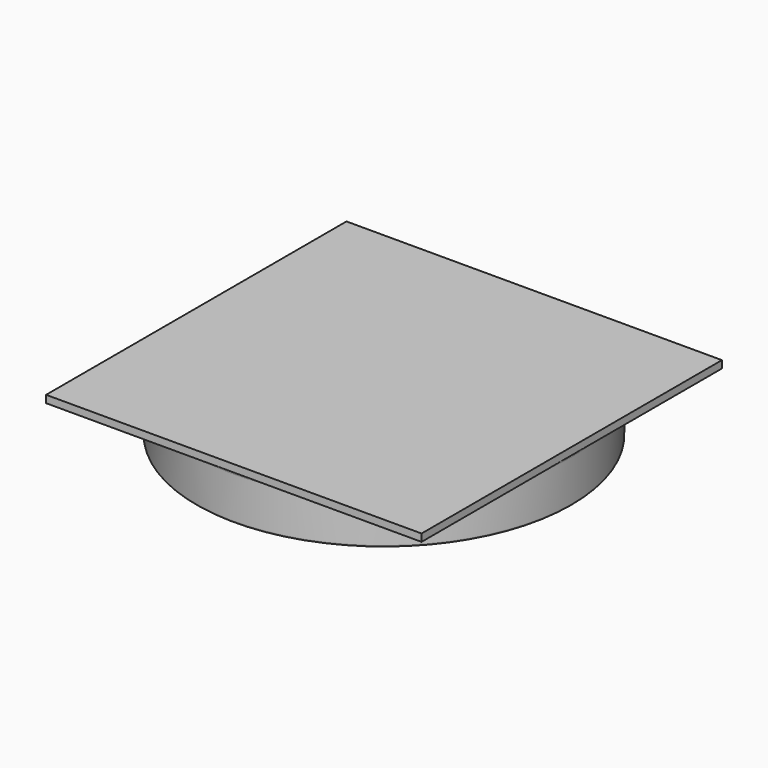
from build123d import *

# Parameters (mm, degrees)
F0_R     = 63.5
F0_R_2   = 58.5
F1_DEPTH = 15
F2_R     = 0.5
F2_2_R   = 0.5
F2_3_R   = 0.5
F2_4_R   = 0.5
F2_5_R   = 0.5
F2_6_R   = 0.5
F2_7_R   = 0.5
F3_R     = 0.5
F3_2_R   = 0.5
F3_3_R   = 0.5
F3_4_R   = 0.5
F3_5_R   = 0.5
F3_6_R   = 0.5
F3_7_R   = 0.5
F3_8_R   = 0.5
F4_W     = 127
F4_H     = 127
F5_DEPTH = 2.5


with BuildPart() as f1:
    # F0 (on Top) → F1 (new body)
    with BuildSketch(Plane.XY):
        Circle(F0_R)
        Circle(F0_R_2, mode=Mode.SUBTRACT)
    extrude(amount=-F1_DEPTH)

    # F3
    f3_edges = [f1.edges().sort_by_distance(p)[0] for p in [
        (-63.5, 0, 0),
        (-58.5, 0, 0),
        (-63.5, 0, -15),
        (-58.5, 0, -15),
    ]]
    fillet(f3_edges, radius=F3_R)


with BuildPart() as f1b:
    # F0 (on Top) → F1, piece 2 (new body)
    with BuildSketch(Plane.XY):
        with BuildLine():
            ThreePointArc((-48.4767985742, -1.5), (-34.2946788875, -34.2946788875), (-1.5, -48.4767985742))
            Line((-1.5, -48.4767985742), (-1.5, -43.4741302386))
            ThreePointArc((-1.5, -43.4741302386), (-30.7591449816, -30.7591449816), (-43.4741302386, -1.5))
            Line((-43.4741302386, -1.5), (-48.4767985742, -1.5))
        make_face()
    extrude(amount=-F1_DEPTH)

    # F2#2
    f2_2_edges = [f1b.edges().sort_by_distance(p)[0] for p in [
        (-48.476799, -1.5, -7.5),
        (-43.47413, -1.5, -7.5),
        (-1.5, -48.476799, -7.5),
        (-1.5, -43.47413, -7.5),
    ]]
    fillet(f2_2_edges, radius=F2_2_R)

    # F3#2
    f3_2_edges = [f1b.edges().sort_by_distance(p)[0] for p in [
        (-34.294679, -34.294679, 0),
        (-30.759145, -30.759145, 0),
        (-30.759145, -30.759145, -15),
        (-34.294679, -34.294679, -15),
    ]]
    fillet(f3_2_edges, radius=F3_2_R)


with BuildPart() as f1c:
    # F0 (on Top) → F1, piece 3 (new body)
    with BuildSketch(Plane.XY):
        with BuildLine():
            Line((-1.5, 43.4741302386), (-1.5, 48.4767985742))
            ThreePointArc((-1.5, 48.4767985742), (-34.2946788875, 34.2946788875), (-48.4767985742, 1.5))
            Line((-48.4767985742, 1.5), (-43.4741302386, 1.5))
            ThreePointArc((-43.4741302386, 1.5), (-30.7591449816, 30.7591449816), (-1.5, 43.4741302386))
        make_face()
    extrude(amount=-F1_DEPTH)

    # F2
    f2_edges = [f1c.edges().sort_by_distance(p)[0] for p in [
        (-48.476799, 1.5, -7.5),
        (-1.5, 48.476799, -7.5),
        (-43.47413, 1.5, -7.5),
        (-1.5, 43.47413, -7.5),
    ]]
    fillet(f2_edges, radius=F2_R)

    # F3#7
    f3_7_edges = [f1c.edges().sort_by_distance(p)[0] for p in [
        (-30.759145, 30.759145, 0),
        (-34.294679, 34.294679, 0),
        (-34.294679, 34.294679, -15),
        (-30.759145, 30.759145, -15),
    ]]
    fillet(f3_7_edges, radius=F3_7_R)


with BuildPart() as f1d:
    # F0 (on Top) → F1, piece 4 (new body)
    with BuildSketch(Plane.XY):
        with BuildLine():
            Line((43.4741302386, 1.5), (48.4767985742, 1.5))
            ThreePointArc((48.4767985742, 1.5), (34.2946788875, 34.2946788875), (1.5, 48.4767985742))
            Line((1.5, 48.4767985742), (1.5, 43.4741302386))
            ThreePointArc((1.5, 43.4741302386), (30.7591449816, 30.7591449816), (43.4741302386, 1.5))
        make_face()
    extrude(amount=-F1_DEPTH)

    # F2#3
    f2_3_edges = [f1d.edges().sort_by_distance(p)[0] for p in [
        (1.5, 48.476799, -7.5),
        (1.5, 43.47413, -7.5),
        (43.47413, 1.5, -7.5),
        (48.476799, 1.5, -7.5),
    ]]
    fillet(f2_3_edges, radius=F2_3_R)

    # F3#8
    f3_8_edges = [f1d.edges().sort_by_distance(p)[0] for p in [
        (30.759145, 30.759145, 0),
        (34.294679, 34.294679, 0),
        (34.294679, 34.294679, -15),
        (30.759145, 30.759145, -15),
    ]]
    fillet(f3_8_edges, radius=F3_8_R)


with BuildPart() as f1e:
    # F0 (on Top) → F1, piece 5 (new body)
    with BuildSketch(Plane.XY):
        with BuildLine():
            ThreePointArc((1.5, -48.4767985742), (34.2946788875, -34.2946788875), (48.4767985742, -1.5))
            Line((48.4767985742, -1.5), (43.4741302386, -1.5))
            ThreePointArc((43.4741302386, -1.5), (30.7591449816, -30.7591449816), (1.5, -43.4741302386))
            Line((1.5, -43.4741302386), (1.5, -48.4767985742))
        make_face()
    extrude(amount=-F1_DEPTH)

    # F2#4
    f2_4_edges = [f1e.edges().sort_by_distance(p)[0] for p in [
        (1.5, -48.476799, -7.5),
        (1.5, -43.47413, -7.5),
        (43.47413, -1.5, -7.5),
        (48.476799, -1.5, -7.5),
    ]]
    fillet(f2_4_edges, radius=F2_4_R)

    # F3#3
    f3_3_edges = [f1e.edges().sort_by_distance(p)[0] for p in [
        (34.294679, -34.294679, 0),
        (30.759145, -30.759145, 0),
        (30.759145, -30.759145, -15),
        (34.294679, -34.294679, -15),
    ]]
    fillet(f3_3_edges, radius=F3_3_R)


with BuildPart() as f1f:
    # F0 (on Top) → F1, piece 6 (new body)
    with BuildSketch(Plane.XY):
        with BuildLine():
            Line((-28.4604989415, -1.5), (-33.4664010614, -1.5))
            ThreePointArc((-33.4664010614, -1.5), (-31.2802201116, -11.9915732818), (-25.8927815197, -21.2559136518))
            Line((-25.8927815197, -21.2559136518), (-22.0281872631, -18.0833892261))
            ThreePointArc((-22.0281872631, -18.0833892261), (-26.5712073159, -10.3063544368), (-28.4604989415, -1.5))
        make_face()
        with BuildLine():
            ThreePointArc((-33.5, 0), (-33.491599212, -0.7501881245), (-33.4664010614, -1.5))
            Line((-33.4664010614, -1.5), (-28.4604989415, -1.5))
            ThreePointArc((-28.4604989415, -1.5), (-28.4901230239, -0.7502600105), (-28.5, 0))
            Line((-28.5, 0), (-33.5, 0))
        make_face()
        with BuildLine():
            Line((-28.4604989415, 1.5), (-33.4664010614, 1.5))
            ThreePointArc((-33.4664010614, 1.5), (-33.491599212, 0.7501881245), (-33.5, 0))
            Line((-33.5, 0), (-28.5, 0))
            ThreePointArc((-28.5, 0), (-28.4901230239, 0.7502600105), (-28.4604989415, 1.5))
        make_face()
        with BuildLine():
            Line((-1.5, 28.4604989415), (-1.5, 33.4664010614))
            ThreePointArc((-1.5, 33.4664010614), (-23.6880771697, 23.6880771697), (-33.4664010614, 1.5))
            Line((-33.4664010614, 1.5), (-28.4604989415, 1.5))
            ThreePointArc((-28.4604989415, 1.5), (-20.1525432638, 20.1525432638), (-1.5, 28.4604989415))
        make_face()
        with BuildLine():
            Line((0, 28.5), (0, 33.5))
            ThreePointArc((0, 33.5), (-0.7501881245, 33.491599212), (-1.5, 33.4664010614))
            Line((-1.5, 33.4664010614), (-1.5, 28.4604989415))
            ThreePointArc((-1.5, 28.4604989415), (-0.7502600105, 28.4901230239), (0, 28.5))
        make_face()
        with BuildLine():
            Line((1.5, 28.4604989415), (1.5, 33.4664010614))
            ThreePointArc((1.5, 33.4664010614), (0.7501881245, 33.491599212), (0, 33.5))
            Line((0, 33.5), (0, 28.5))
            ThreePointArc((0, 28.5), (0.7502600105, 28.4901230239), (1.5, 28.4604989415))
        make_face()
        with BuildLine():
            ThreePointArc((25.8927815197, 21.2559136518), (14.9955033441, 29.9563829502), (1.5, 33.4664010614))
            Line((1.5, 33.4664010614), (1.5, 28.4604989415))
            ThreePointArc((1.5, 28.4604989415), (12.8574881094, 25.4349169355), (22.0281872631, 18.0833892261))
            Line((22.0281872631, 18.0833892261), (25.8927815197, 21.2559136518))
        make_face()
    extrude(amount=-F1_DEPTH)

    # F2#5
    f2_5_edges = [f1f.edges().sort_by_distance(p)[0] for p in [
        (25.892782, 21.255914, -7.5),
        (22.028187, 18.083389, -7.5),
        (-25.892782, -21.255914, -7.5),
    ]]
    fillet(f2_5_edges, radius=F2_5_R)

    # F3#6
    f3_6_edges = [f1f.edges().sort_by_distance(p)[0] for p in [
        (-18.272622, 21.871472, 0),
        (-21.255914, 25.892782, 0),
        (-21.255914, 25.892782, -15),
        (-18.272622, 21.871472, -15),
    ]]
    fillet(f3_6_edges, radius=F3_6_R)


with BuildPart() as f1g:
    # F0 (on Top) → F1, piece 7 (new body)
    with BuildSketch(Plane.XY):
        with BuildLine():
            Line((28.4604989415, 1.5), (33.4664010614, 1.5))
            ThreePointArc((33.4664010614, 1.5), (31.7862605909, 10.5775062112), (27.6922622572, 18.8517535279))
            Line((27.6922622572, 18.8517535279), (23.8093221534, 15.6641686213))
            ThreePointArc((23.8093221534, 15.6641686213), (27.0774715863, 8.8915989841), (28.4604989415, 1.5))
        make_face()
        with BuildLine():
            Line((28.5, 0), (33.5, 0))
            ThreePointArc((33.5, 0), (33.491599212, 0.7501881245), (33.4664010614, 1.5))
            Line((33.4664010614, 1.5), (28.4604989415, 1.5))
            ThreePointArc((28.4604989415, 1.5), (28.4901230239, 0.7502600105), (28.5, 0))
        make_face()
        with BuildLine():
            ThreePointArc((33.4664010614, -1.5), (33.491599212, -0.7501881245), (33.5, 0))
            Line((33.5, 0), (28.5, 0))
            ThreePointArc((28.5, 0), (28.4901230239, -0.7502600105), (28.4604989415, -1.5))
            Line((28.4604989415, -1.5), (33.4664010614, -1.5))
        make_face()
        with BuildLine():
            ThreePointArc((1.5, -33.4664010614), (23.6880771697, -23.6880771697), (33.4664010614, -1.5))
            Line((33.4664010614, -1.5), (28.4604989415, -1.5))
            ThreePointArc((28.4604989415, -1.5), (20.1525432638, -20.1525432638), (1.5, -28.4604989415))
            Line((1.5, -28.4604989415), (1.5, -33.4664010614))
        make_face()
        with BuildLine():
            ThreePointArc((0, -33.5), (0.7501881245, -33.491599212), (1.5, -33.4664010614))
            Line((1.5, -33.4664010614), (1.5, -28.4604989415))
            ThreePointArc((1.5, -28.4604989415), (0.7502600105, -28.4901230239), (0, -28.5))
            Line((0, -28.5), (0, -33.5))
        make_face()
        with BuildLine():
            ThreePointArc((-1.5, -33.4664010614), (-0.7501881245, -33.491599212), (0, -33.5))
            Line((0, -33.5), (0, -28.5))
            ThreePointArc((0, -28.5), (-0.7502600105, -28.4901230239), (-1.5, -28.4604989415))
            Line((-1.5, -28.4604989415), (-1.5, -33.4664010614))
        make_face()
        with BuildLine():
            ThreePointArc((-23.8852329465, -23.4892666359), (-13.6377533257, -30.598393491), (-1.5, -33.4664010614))
            Line((-1.5, -33.4664010614), (-1.5, -28.4604989415))
            ThreePointArc((-1.5, -28.4604989415), (-11.4990749171, -26.0772175673), (-20.0022928426, -20.3016817293))
            Line((-20.0022928426, -20.3016817293), (-23.8852329465, -23.4892666359))
        make_face()
    extrude(amount=-F1_DEPTH)

    # F2#6
    f2_6_edges = [f1g.edges().sort_by_distance(p)[0] for p in [
        (27.692262, 18.851754, -7.5),
        (23.809322, 15.664169, -7.5),
        (-23.885233, -23.489267, -7.5),
        (-20.002293, -20.301682, -7.5),
    ]]
    fillet(f2_6_edges, radius=F2_6_R)

    # F3#4
    f3_4_edges = [f1g.edges().sort_by_distance(p)[0] for p in [
        (21.255914, -25.892782, 0),
        (18.083389, -22.028187, 0),
        (18.083389, -22.028187, -15),
        (21.255914, -25.892782, -15),
    ]]
    fillet(f3_4_edges, radius=F3_4_R)


with BuildPart() as f1h:
    # F0 (on Top) → F1, piece 8 (new body)
    with BuildSketch(Plane.XY):
        with BuildLine():
            Line((-13.416407865, -1.5), (-18.4390889146, -1.5))
            ThreePointArc((-18.4390889146, -1.5), (-17.1508454423, -6.9353082566), (-14.2989987497, -11.7383403749))
            Line((-14.2989987497, -11.7383403749), (-10.434404493, -8.5658159492))
            ThreePointArc((-10.434404493, -8.5658159492), (-12.4377148742, -5.2491188507), (-13.416407865, -1.5))
        make_face()
        with BuildLine():
            ThreePointArc((-14.2989987497, -11.7383403749), (-13.2966828764, -12.8626678603), (-12.2062242964, -13.9017296919))
            Line((-12.2062242964, -13.9017296919), (-8.2699884368, -10.6703932099))
            ThreePointArc((-8.2699884368, -10.6703932099), (-9.4112108722, -9.6787969252), (-10.434404493, -8.5658159492))
            Line((-10.434404493, -8.5658159492), (-14.2989987497, -11.7383403749))
        make_face()
        with BuildLine():
            ThreePointArc((-12.2062242964, -13.9017296919), (-7.2188678679, -17.0334361391), (-1.5, -18.4390889146))
            Line((-1.5, -18.4390889146), (-1.5, -13.416407865))
            ThreePointArc((-1.5, -13.416407865), (-5.0742800115, -12.5100632438), (-8.2699884368, -10.6703932099))
            Line((-8.2699884368, -10.6703932099), (-12.2062242964, -13.9017296919))
        make_face()
        with BuildLine():
            ThreePointArc((-1.5, -18.4390889146), (-0.7506181054, -18.4847659563), (0, -18.5))
            Line((0, -18.5), (0, -13.5))
            ThreePointArc((0, -13.5), (-0.7511637047, -13.4790857661), (-1.5, -13.416407865))
            Line((-1.5, -13.416407865), (-1.5, -18.4390889146))
        make_face()
        with BuildLine():
            ThreePointArc((0, -18.5), (0.7506181054, -18.4847659563), (1.5, -18.4390889146))
            Line((1.5, -18.4390889146), (1.5, -13.416407865))
            ThreePointArc((1.5, -13.416407865), (0.7511637047, -13.4790857661), (0, -13.5))
            Line((0, -13.5), (0, -18.5))
        make_face()
        with BuildLine():
            Line((1.5, -13.416407865), (1.5, -18.4390889146))
            ThreePointArc((1.5, -18.4390889146), (7.8061777244, -16.7724055918), (13.1419555078, -13.0207144747))
            Line((13.1419555078, -13.0207144747), (9.5900756408, -9.5016024545))
            ThreePointArc((9.5900756408, -9.5016024545), (5.8803800711, -12.1520010788), (1.5, -13.416407865))
        make_face()
        with BuildLine():
            ThreePointArc((15.0794774047, -10.7172459708), (17.3813974653, -6.3353786116), (18.4390889146, -1.5))
            Line((18.4390889146, -1.5), (13.416407865, -1.5))
            ThreePointArc((13.416407865, -1.5), (12.7539446442, -4.4257085322), (11.4617530144, -7.1328968755))
            Line((11.4617530144, -7.1328968755), (15.0794774047, -10.7172459709))
        make_face()
        with BuildLine():
            ThreePointArc((18.4390889146, -1.5), (18.4847659563, -0.7506181054), (18.5, 0))
            Line((18.5, 0), (13.5, 0))
            ThreePointArc((13.5, 0), (13.4790857661, -0.7511637047), (13.416407865, -1.5))
            Line((13.416407865, -1.5), (18.4390889146, -1.5))
        make_face()
        with BuildLine():
            Line((13.5, 0), (18.5, 0))
            ThreePointArc((18.5, 0), (18.4847659563, 0.7506181054), (18.4390889146, 1.5))
            Line((18.4390889146, 1.5), (13.416407865, 1.5))
            ThreePointArc((13.416407865, 1.5), (13.4790857661, 0.7511637047), (13.5, 0))
        make_face()
        with BuildLine():
            ThreePointArc((-18.5, 0), (-18.4847659563, -0.7506181054), (-18.4390889146, -1.5))
            Line((-18.4390889146, -1.5), (-13.416407865, -1.5))
            ThreePointArc((-13.416407865, -1.5), (-13.4790857661, -0.7511637047), (-13.5, 0))
            Line((-13.5, 0), (-18.5, 0))
        make_face()
        with BuildLine():
            Line((-13.416407865, 1.5), (-18.4390889146, 1.5))
            ThreePointArc((-18.4390889146, 1.5), (-18.4847659563, 0.7506181054), (-18.5, 0))
            Line((-18.5, 0), (-13.5, 0))
            ThreePointArc((-13.5, 0), (-13.4790857661, 0.7511637047), (-13.416407865, 1.5))
        make_face()
        with BuildLine():
            ThreePointArc((-13.1419555078, 13.0207144747), (-16.8083999002, 7.7283693491), (-18.4390889146, 1.5))
            Line((-18.4390889146, 1.5), (-13.416407865, 1.5))
            ThreePointArc((-13.416407865, 1.5), (-12.1791207107, 5.8240036671), (-9.5900756408, 9.5016024545))
            Line((-9.5900756408, 9.5016024545), (-13.1419555078, 13.0207144747))
        make_face()
        with BuildLine():
            Line((-1.5, 13.416407865), (-1.5, 18.4390889146))
            ThreePointArc((-1.5, 18.4390889146), (-6.4158572567, 17.3518522257), (-10.8565429805, 14.9795018112))
            Line((-10.8565429805, 14.9795018112), (-7.2388185902, 11.3951527159))
            ThreePointArc((-7.2388185902, 11.3951527159), (-4.4847637265, 12.7332986424), (-1.5, 13.416407865))
        make_face()
        with BuildLine():
            Line((0, 13.5), (0, 18.5))
            ThreePointArc((0, 18.5), (-0.7506181054, 18.4847659563), (-1.5, 18.4390889146))
            Line((-1.5, 18.4390889146), (-1.5, 13.416407865))
            ThreePointArc((-1.5, 13.416407865), (-0.7511637047, 13.4790857661), (0, 13.5))
        make_face()
        with BuildLine():
            Line((1.5, 13.416407865), (1.5, 18.4390889146))
            ThreePointArc((1.5, 18.4390889146), (0.7506181054, 18.4847659563), (0, 18.5))
            Line((0, 18.5), (0, 13.5))
            ThreePointArc((0, 13.5), (0.7511637047, 13.4790857661), (1.5, 13.416407865))
        make_face()
        with BuildLine():
            ThreePointArc((14.2989987497, 11.7383403749), (8.580623411, 16.389719396), (1.5, 18.4390889146))
            Line((1.5, 18.4390889146), (1.5, 13.416407865))
            ThreePointArc((1.5, 13.416407865), (6.4412392545, 11.864250371), (10.434404493, 8.5658159492))
            Line((10.434404493, 8.5658159492), (14.2989987497, 11.7383403749))
        make_face()
        with BuildLine():
            Line((13.416407865, 1.5), (18.4390889146, 1.5))
            ThreePointArc((18.4390889146, 1.5), (17.6581918978, 5.5170879004), (16.0132536072, 9.2642165839))
            Line((16.0132536072, 9.2642165839), (12.0770177476, 6.0328801019))
            ThreePointArc((12.0770177476, 6.0328801019), (12.9466380914, 3.8255146228), (13.416407865, 1.5))
        make_face()
        with BuildLine():
            Line((12.0770177476, 6.0328801019), (16.0132536072, 9.2642165839))
            ThreePointArc((16.0132536072, 9.2642165839), (15.2065276401, 10.5362003175), (14.2989987497, 11.7383403749))
            Line((14.2989987497, 11.7383403749), (10.434404493, 8.5658159492))
            ThreePointArc((10.434404493, 8.5658159492), (11.3267371218, 7.3454085097), (12.0770177476, 6.0328801019))
        make_face()
        with BuildLine():
            ThreePointArc((13.1419555078, -13.0207144747), (14.1576414242, -11.9084503318), (15.0794774047, -10.7172459708))
            Line((15.0794774047, -10.7172459709), (11.4617530144, -7.1328968755))
            ThreePointArc((11.4617530144, -7.1328968755), (10.5923351515, -8.3697333314), (9.5900756408, -9.5016024545))
            Line((9.5900756408, -9.5016024545), (13.1419555078, -13.0207144747))
        make_face()
    extrude(amount=-F1_DEPTH)

    # F2#7
    f2_7_edges = [f1h.edges().sort_by_distance(p)[0] for p in [
        (-7.238819, 11.395153, -7.5),
        (-9.590076, 9.501602, -7.5),
        (-10.856543, 14.979502, -7.5),
        (-13.141956, 13.020714, -7.5),
    ]]
    fillet(f2_7_edges, radius=F2_7_R)

    # F3#5
    f3_5_edges = [f1h.edges().sort_by_distance(p)[0] for p in [
        (12.003799, -14.076889, 0),
        (8.504998, -10.484036, 0),
        (12.003799, -14.076889, -15),
        (8.504998, -10.484036, -15),
    ]]
    fillet(f3_5_edges, radius=F3_5_R)


with BuildPart() as f5:
    # F4 (on Top) → F5 (new body)
    with BuildSketch(Plane.XY):
        Rectangle(F4_W, F4_H)
    extrude(amount=F5_DEPTH)


solid = Compound([f1.part, f1b.part, f1c.part, f1d.part, f1e.part, f1f.part, f1g.part, f1h.part, f5.part])
